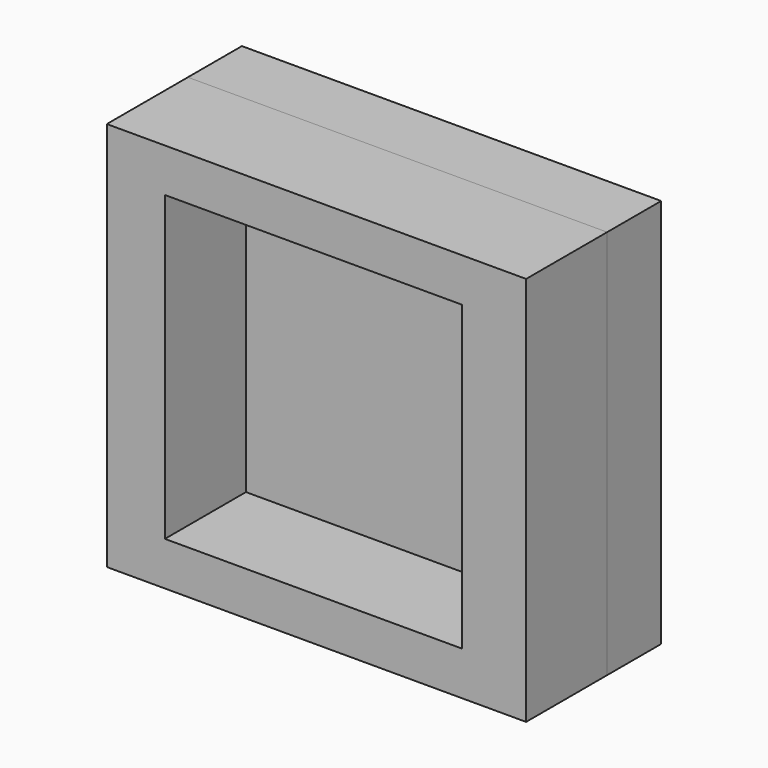
from build123d import *

# Parameters (mm, degrees)
F0_W     = 31.541519
F0_H     = 29.337
F0_W_2   = 22.340103
F0_H_2   = 22.773562
F1_DEPTH = 12.7
F2_DEPTH = 5.08


with BuildPart() as f1:
    # F0 (on Front) → F1 (new body)
    with BuildSketch(Plane.XZ):
        with Locations((-15.922486, 7.198989)):
            Rectangle(F0_W, F0_H)
        with Locations((-16.154394, 7.204108)):
            Rectangle(F0_W_2, F0_H_2, mode=Mode.SUBTRACT)
        with Locations((-15.922486, 7.198989)):
            Rectangle(F0_W, F0_H)
        with Locations((-16.154394, 7.204108)):
            Rectangle(F0_W_2, F0_H_2, mode=Mode.SUBTRACT)
    extrude(amount=F1_DEPTH)


with BuildPart() as f2:
    # F0 (on Front) → F2 (new body)
    with BuildSketch(Plane.XZ):
        with Locations((-15.922486, 7.198989)):
            Rectangle(F0_W, F0_H)
        with Locations((-16.154394, 7.204108)):
            Rectangle(F0_W_2, F0_H_2, mode=Mode.SUBTRACT)
        with Locations((-16.154394, 7.204108)):
            Rectangle(F0_W_2, F0_H_2)
    extrude(amount=F2_DEPTH)


solid = Compound([f1.part, f2.part])
